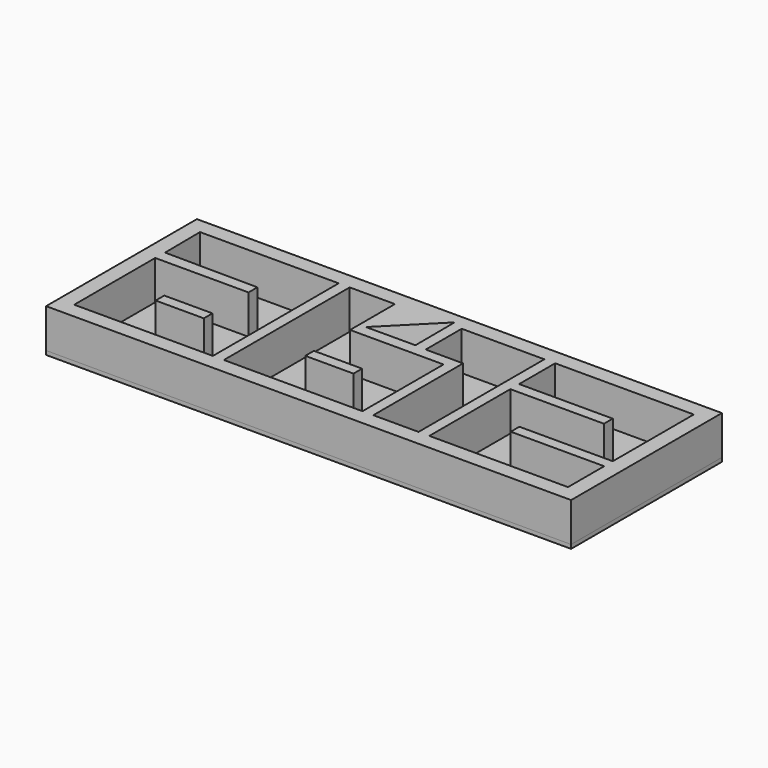
from build123d import *

# Parameters (mm, degrees)
F0_W     = 67.203204
F0_H     = 24.12996
F1_DEPTH = 5
F0_W_2   = 6.169912
F0_H_2   = 1.38125
F0_W_3   = 6.170014
F2_DEPTH = 5
F3_W     = 67.203204
F3_H     = 24.12996
F4_DEPTH = 0.5


with BuildPart() as f1:
    # F0 (on Top) → F1 (new body)
    with BuildSketch(Plane.XY):
        with Locations((-1.3e-05, -0.040005)):
            Rectangle(F0_W, F0_H)
        Polygon((-31.554361, 4.377002), (-31.606227, 10.024975), (-13.852981, 10.024975), (-13.852981, -10.104985), (-31.601615, -10.104985), (-31.601615, 2.853666), (-19.650115, 2.853666), (-19.67042, 4.273602), align=None, mode=Mode.SUBTRACT)
        Polygon((5.301667, -10.104985), (-12.44557, -10.104985), (-12.44557, 10.024975), (-6.656907, 10.024975), (-6.656907, 2.853666), (5.301667, 2.853666), align=None, mode=Mode.SUBTRACT)
        Polygon((-5.811986, 4.334379), (0.476491, 10.659036), (0.51615, 4.347598), align=None, mode=Mode.SUBTRACT)
        Polygon((12.473357, 10.024975), (12.473357, -10.104985), (6.682916, -10.104985), (6.682916, 4.262474), (1.894254, 4.262474), (1.894254, 10.024975), align=None, mode=Mode.SUBTRACT)
        Polygon((25.839088, 4.262474), (13.854606, 4.262474), (13.854606, 10.024975), (31.601589, 10.024975), (31.601589, -2.935048), (19.643015, -2.935048), (19.643015, -4.316297), (31.601589, -4.316297), (31.601589, -10.104985), (13.854606, -10.104985), (13.854606, 2.853666), (25.839088, 2.853666), align=None, mode=Mode.SUBTRACT)
    extrude(amount=F1_DEPTH)


with BuildPart() as f2:
    # F0 (on Top) → F2 (new body)
    with BuildSketch(Plane.XY):
        with Locations((-3.571951, -3.625672)):
            Rectangle(F0_W_2, F0_H_2)
        with Locations((-22.72792, -3.625672)):
            Rectangle(F0_W_3, F0_H_2)
    extrude(amount=F2_DEPTH)


with BuildPart() as f4:
    # F3 (on face) → F4 (new body)
    with BuildSketch(Plane.XY):
        with Locations((-1.3e-05, -0.040005)):
            Rectangle(F3_W, F3_H)
    extrude(amount=-F4_DEPTH)


solid = Compound([f1.part, f2.part, f4.part])
